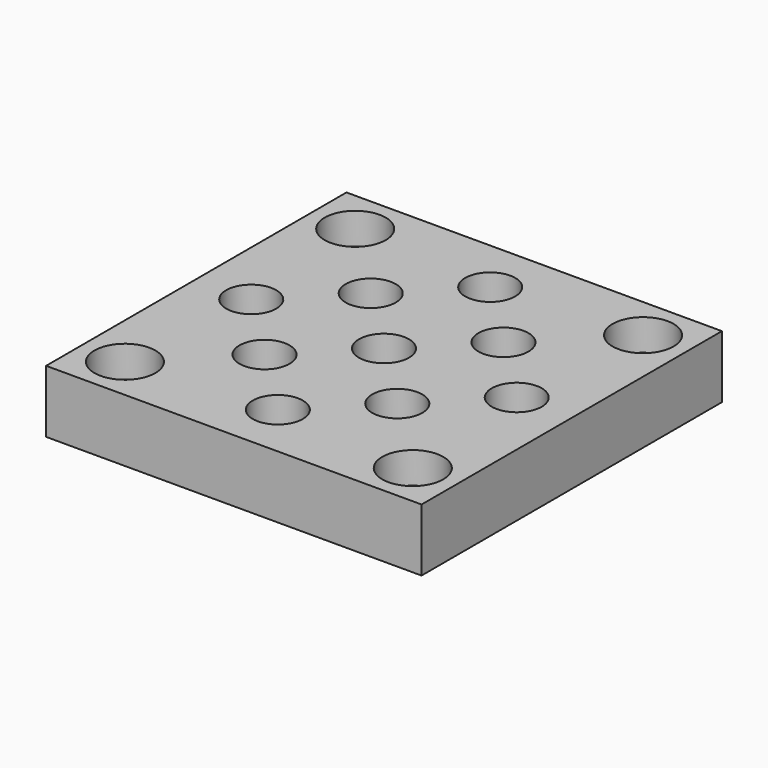
from build123d import *

# Parameters (mm, degrees)
F0_W           = 60
F0_H           = 60
F1_DEPTH       = 10
F2_R           = 4
F3_DEPTH       = 10.001
F4_D           = 5.5
F4_CBORE_D     = 9.75
F4_CBORE_DEPTH = 5


with BuildPart() as f1:
    # F0 (on Top) → F1 (new body)
    with BuildSketch(Plane.XY):
        Rectangle(F0_W, F0_H)
    extrude(amount=-F1_DEPTH)

    # F2 (on face) → F3 (cut, through all)
    with BuildSketch(Plane.XY):
        with Locations((0, -21.2132034356)):
            Circle(F2_R)
        with Locations((-10.6066017178, -10.6066017178)):
            Circle(F2_R)
        with Locations((-21.2132034356, 0)):
            Circle(F2_R)
        Circle(F2_R)
        with Locations((10.6066017178, -10.6066017178)):
            Circle(F2_R)
        with Locations((21.2132034356, 0)):
            Circle(F2_R)
        with Locations((10.6066017178, 10.6066017178)):
            Circle(F2_R)
        with Locations((0, 21.2132034356)):
            Circle(F2_R)
        with Locations((-10.6066017178, 10.6066017178)):
            Circle(F2_R)
    extrude(amount=-F3_DEPTH, mode=Mode.SUBTRACT)

    # F4 (through all)
    with Locations(Plane.XY):
        with Locations((23, -23), (-23, -23), (-23, 23), (23, 23)):
            CounterBoreHole(F4_D / 2, F4_CBORE_D / 2, F4_CBORE_DEPTH)


solid = f1.part
